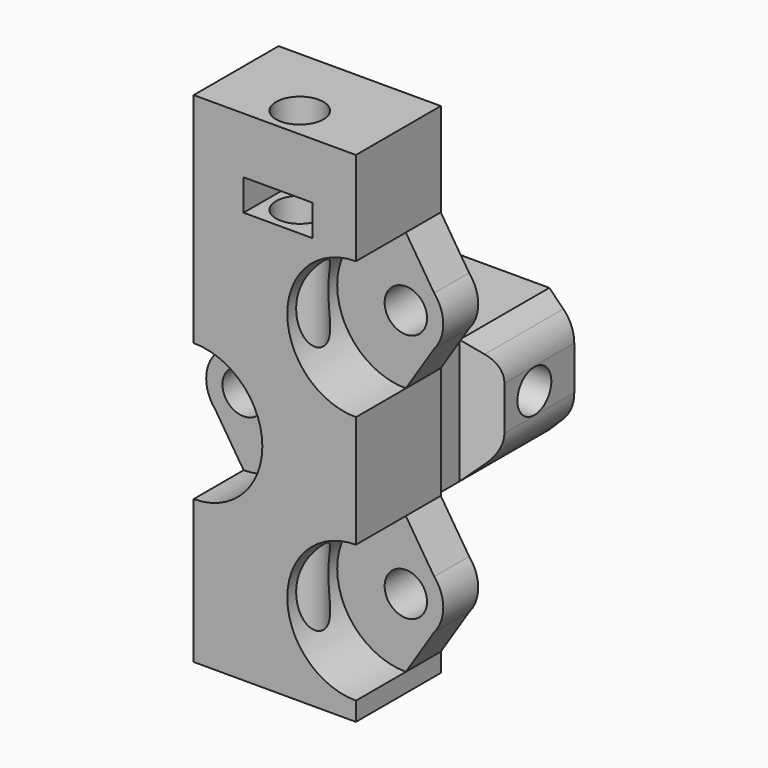
from build123d import *

# Parameters (mm, degrees)
BOX001027045206_W       = 8
BOX001027045206_H       = 6
BOX001027045206_DEPTH   = 10
CYLINDER272_R           = 2.2
CYLINDER272_DEPTH       = 30
CYLINDER271_R           = 2.2
CYLINDER271_DEPTH       = 30
CYLINDER271_PITCH_ANGLE = 90
CYLINDER270_R           = 1.7
CYLINDER270_DEPTH       = 30
CYLINDER270_PITCH_ANGLE = 90
BOX001027045200_W       = 10
BOX001027045200_H       = 9
BOX001027045200_DEPTH   = 10
CHAMFER015_SIZE         = 2
CHAMFER016_SIZE         = 2
FILLET046_R             = 3
CYLINDER045_R           = 1.9
CYLINDER045_DEPTH       = 200
BOX030_W                = 5.5
BOX030_H                = 10
BOX030_DEPTH            = 2.5
CYLINDER048_R           = 5.5
CYLINDER048_DEPTH       = 10
CYLINDER048_ROLL_ANGLE  = 90
CYLINDER050_R           = 5.5
CYLINDER050_DEPTH       = 10
CYLINDER050_ROLL_ANGLE  = 90
CYLINDER052_R           = 1.7
CYLINDER052_DEPTH       = 30
CYLINDER052_ROLL_ANGLE  = 90
CYLINDER053_R           = 1.7
CYLINDER053_DEPTH       = 30
CYLINDER053_ROLL_ANGLE  = 90
CYLINDER054_R           = 1.7
CYLINDER054_DEPTH       = 30
CYLINDER054_ROLL_ANGLE  = 90
CYLINDER047_R           = 5.5
CYLINDER047_DEPTH       = 10
CYLINDER047_ROLL_ANGLE  = 90
CYLINDER049_R           = 3
CYLINDER049_DEPTH       = 10
CYLINDER049_ROLL_ANGLE  = 90
CYLINDER051_R           = 3
CYLINDER051_DEPTH       = 10
CYLINDER051_ROLL_ANGLE  = 90
CYLINDER046_R           = 3
CYLINDER046_DEPTH       = 10
CYLINDER046_ROLL_ANGLE  = 90
BOX028_W                = 13
BOX028_H                = 8.5
BOX028_DEPTH            = 40
CHAMFER006_SIZE         = 2.5
CYLINDER273_R           = 2
CYLINDER273_DEPTH       = 10
CYLINDER273_PITCH_ANGLE = 90
BOX001027045201_W       = 3
BOX001027045201_H       = 8
BOX001027045201_DEPTH   = 8
FILLET047_R             = 3
CUT247_PITCH_ANGLE      = 90
CUT247_PLACEMENT_ANGLE  = 90


with BuildPart() as cube252:
    # Box001027045206 → Box001027045206 (new body)
    with BuildSketch(Plane(origin=(59.1, 20, 53), x_dir=(1, 0, 0), z_dir=(0, 0, 1))):
        with Locations((4, 3)):
            Rectangle(BOX001027045206_W, BOX001027045206_H)
    extrude(amount=BOX001027045206_DEPTH)


with BuildPart() as cylinder288:
    # Cylinder272 → Cylinder272 (new body)
    with BuildSketch(Plane(origin=(79.5, 5, 48), x_dir=(1, 0, 0), z_dir=(0, 0, 1))):
        Circle(CYLINDER272_R)
    extrude(amount=CYLINDER272_DEPTH)


with BuildPart() as cylinder287:
    # Cylinder271 → Cylinder271 (new body)
    with BuildSketch(Plane.XY):
        Circle(CYLINDER271_R)
    extrude(amount=CYLINDER271_DEPTH)


with BuildPart() as cylinder287_1:
    # Cylinder271 pitch: moved
    add(cylinder287.part.rotate(Axis((0, 0, 0), (0, 1, 0)), CYLINDER271_PITCH_ANGLE))


with BuildPart() as cylinder287_2:
    # Cylinder271 placement: moved
    add(cylinder287_1.part.moved(Location((74, 5, 58))))


with BuildPart() as cylinder286:
    # Cylinder270 → Cylinder270 (new body)
    with BuildSketch(Plane.XY):
        Circle(CYLINDER270_R)
    extrude(amount=CYLINDER270_DEPTH)


with BuildPart() as cylinder286_1:
    # Cylinder270 pitch: moved
    add(cylinder286.part.rotate(Axis((0, 0, 0), (0, 1, 0)), CYLINDER270_PITCH_ANGLE))


with BuildPart() as cylinder286_2:
    # Cylinder270 placement: moved
    add(cylinder286_1.part.moved(Location((57, 5, 58))))


with BuildPart() as led_pt_holder001:
    # Box001027045200 → Box001027045200 (new body)
    with BuildSketch(Plane(origin=(71, 1, 53), x_dir=(1, 0, 0), z_dir=(0, 0, 1))):
        with Locations((5, 4.5)):
            Rectangle(BOX001027045200_W, BOX001027045200_H)
    extrude(amount=BOX001027045200_DEPTH)

    # Chamfer015
    chamfer015_edges = [led_pt_holder001.edges().sort_by_distance(p)[0] for p in [
        (71, 10, 58),
    ]]
    chamfer(chamfer015_edges, length=CHAMFER015_SIZE)


with BuildPart() as led_pt_holder001_1:
    # Chamfer015 placement: moved
    add(led_pt_holder001.part.moved(Location((-1.5, 0, 0))))

    # Chamfer016
    chamfer016_edges = [led_pt_holder001_1.edges().sort_by_distance(p)[0] for p in [
        (69.5, 4.5, 63),
        (69.5, 4.5, 53),
    ]]
    chamfer(chamfer016_edges, length=CHAMFER016_SIZE)

    # Cut242: cut Cylinder286
    add(cylinder286_2.part, mode=Mode.SUBTRACT)

    # Cut243: cut Cylinder287
    add(cylinder287_2.part, mode=Mode.SUBTRACT)

    # Fillet046
    fillet046_edges = [led_pt_holder001_1.edges().sort_by_distance(p)[0] for p in [
        (69.5, 4.5, 55),
        (69.5, 4.5, 61),
    ]]
    fillet(fillet046_edges, radius=FILLET046_R)

    # Cut245: cut Cylinder288
    add(cylinder288.part, mode=Mode.SUBTRACT)


with BuildPart() as part_mirroring015:
    # Part__Mirroring015: instance of led-pt-holder001
    add(led_pt_holder001_1.part.mirror(Plane(origin=(60, 0, 0), x_dir=(0, -1, 0), z_dir=(1, 0, 0))))


with BuildPart() as part_mirroring015_1:
    # Part__Mirroring015 placement: moved
    add(part_mirroring015.part.moved(Location((18.6, 0, 0))))


with BuildPart() as pt_holder:
    # Part__Mirroring019: instance of Part__Mirroring015
    add(part_mirroring015_1.part.mirror(Plane(origin=(0, 0, 0), x_dir=(1, 0, 0), z_dir=(0, 1, 0))))


with BuildPart() as pt_holder_1:
    # Part__Mirroring019 placement: moved
    add(pt_holder.part.moved(Location((0, 34, 0))))

    # Fusion112161: union Cube252
    add(cube252.part)


with BuildPart() as m3_studding004:
    # Cylinder045 → Cylinder045 (new body)
    with BuildSketch(Plane(origin=(61.5, 15, 2), x_dir=(1, 0, 0), z_dir=(0, 0, 1))):
        Circle(CYLINDER045_R)
    extrude(amount=CYLINDER045_DEPTH)


with BuildPart() as m3_nut_hole:
    # Box030 → Box030 (new body)
    with BuildSketch(Plane(origin=(59, 11.7, 74), x_dir=(1, 0, 0), z_dir=(0, 0, 1))):
        with Locations((2.75, 5)):
            Rectangle(BOX030_W, BOX030_H)
    extrude(amount=BOX030_DEPTH)


with BuildPart() as cylinder088:
    # Cylinder048 → Cylinder048 (new body)
    with BuildSketch(Plane.XY):
        Circle(CYLINDER048_R)
    extrude(amount=CYLINDER048_DEPTH)


with BuildPart() as cylinder088_1:
    # Cylinder048 roll: moved
    add(cylinder088.part.rotate(Axis((0, 0, 0), (1, 0, 0)), CYLINDER048_ROLL_ANGLE))


with BuildPart() as cylinder088_2:
    # Cylinder048 placement: moved
    add(cylinder088_1.part.moved(Location((68, 17.5, 68))))


with BuildPart() as cylinder090:
    # Cylinder050 → Cylinder050 (new body)
    with BuildSketch(Plane.XY):
        Circle(CYLINDER050_R)
    extrude(amount=CYLINDER050_DEPTH)


with BuildPart() as cylinder090_1:
    # Cylinder050 roll: moved
    add(cylinder090.part.rotate(Axis((0, 0, 0), (1, 0, 0)), CYLINDER050_ROLL_ANGLE))


with BuildPart() as cylinder090_2:
    # Cylinder050 placement: moved
    add(cylinder090_1.part.moved(Location((68, 17.5, 48))))


with BuildPart() as cylinder092:
    # Cylinder052 → Cylinder052 (new body)
    with BuildSketch(Plane.XY):
        Circle(CYLINDER052_R)
    extrude(amount=CYLINDER052_DEPTH)


with BuildPart() as cylinder092_1:
    # Cylinder052 roll: moved
    add(cylinder092.part.rotate(Axis((0, 0, 0), (1, 0, 0)), CYLINDER052_ROLL_ANGLE))


with BuildPart() as cylinder092_2:
    # Cylinder052 placement: moved
    add(cylinder092_1.part.moved(Location((68, 26, 48))))


with BuildPart() as cylinder052:
    # Cylinder053 → Cylinder053 (new body)
    with BuildSketch(Plane.XY):
        Circle(CYLINDER053_R)
    extrude(amount=CYLINDER053_DEPTH)


with BuildPart() as cylinder052_1:
    # Cylinder053 roll: moved
    add(cylinder052.part.rotate(Axis((0, 0, 0), (1, 0, 0)), CYLINDER053_ROLL_ANGLE))


with BuildPart() as cylinder052_2:
    # Cylinder053 placement: moved
    add(cylinder052_1.part.moved(Location((68, 27, 68))))


with BuildPart() as cylinder093:
    # Cylinder054 → Cylinder054 (new body)
    with BuildSketch(Plane.XY):
        Circle(CYLINDER054_R)
    extrude(amount=CYLINDER054_DEPTH)


with BuildPart() as cylinder093_1:
    # Cylinder054 roll: moved
    add(cylinder093.part.rotate(Axis((0, 0, 0), (1, 0, 0)), CYLINDER054_ROLL_ANGLE))


with BuildPart() as cylinder093_2:
    # Cylinder054 placement: moved
    add(cylinder093_1.part.moved(Location((55, 26, 58))))


with BuildPart() as trolley_clearances_and_screws:
    # Cylinder047 → Cylinder047 (new body)
    with BuildSketch(Plane.XY):
        Circle(CYLINDER047_R)
    extrude(amount=CYLINDER047_DEPTH)


with BuildPart() as trolley_clearances_and_screws_1:
    # Cylinder047 roll: moved
    add(trolley_clearances_and_screws.part.rotate(Axis((0, 0, 0), (1, 0, 0)), CYLINDER047_ROLL_ANGLE))


with BuildPart() as trolley_clearances_and_screws_2:
    # Cylinder047 placement: moved
    add(trolley_clearances_and_screws_1.part.moved(Location((55, 17.5, 58))))

    # Fusion028: union Cylinder088, Cylinder090, Cylinder092, Cylinder052, Cylinder093
    add(cylinder088_2.part)
    add(cylinder090_2.part)
    add(cylinder092_2.part)
    add(cylinder052_2.part)
    add(cylinder093_2.part)


with BuildPart() as cylinder089:
    # Cylinder049 → Cylinder049 (new body)
    with BuildSketch(Plane.XY):
        Circle(CYLINDER049_R)
    extrude(amount=CYLINDER049_DEPTH)


with BuildPart() as cylinder089_1:
    # Cylinder049 roll: moved
    add(cylinder089.part.rotate(Axis((0, 0, 0), (1, 0, 0)), CYLINDER049_ROLL_ANGLE))


with BuildPart() as cylinder089_2:
    # Cylinder049 placement: moved
    add(cylinder089_1.part.moved(Location((68, 21, 68))))


with BuildPart() as cylinder091:
    # Cylinder051 → Cylinder051 (new body)
    with BuildSketch(Plane.XY):
        Circle(CYLINDER051_R)
    extrude(amount=CYLINDER051_DEPTH)


with BuildPart() as cylinder091_1:
    # Cylinder051 roll: moved
    add(cylinder091.part.rotate(Axis((0, 0, 0), (1, 0, 0)), CYLINDER051_ROLL_ANGLE))


with BuildPart() as cylinder091_2:
    # Cylinder051 placement: moved
    add(cylinder091_1.part.moved(Location((68, 21, 48))))


with BuildPart() as trolley_hubs:
    # Cylinder046 → Cylinder046 (new body)
    with BuildSketch(Plane.XY):
        Circle(CYLINDER046_R)
    extrude(amount=CYLINDER046_DEPTH)


with BuildPart() as trolley_hubs_1:
    # Cylinder046 roll: moved
    add(trolley_hubs.part.rotate(Axis((0, 0, 0), (1, 0, 0)), CYLINDER046_ROLL_ANGLE))


with BuildPart() as trolley_hubs_2:
    # Cylinder046 placement: moved
    add(trolley_hubs_1.part.moved(Location((55, 21, 58))))

    # Fusion027: union Cylinder089, Cylinder091
    add(cylinder089_2.part)
    add(cylinder091_2.part)


with BuildPart() as trolley_b001:
    # Box028 → Box028 (new body)
    with BuildSketch(Plane(origin=(55, 12.5, 41), x_dir=(1, 0, 0), z_dir=(0, 0, 1))):
        with Locations((6.5, 4.25)):
            Rectangle(BOX028_W, BOX028_H)
    extrude(amount=BOX028_DEPTH)

    # Fusion029: union trolley-hubs
    add(trolley_hubs_2.part)

    # Cut017: cut trolley-clearances-and-screws
    add(trolley_clearances_and_screws_2.part, mode=Mode.SUBTRACT)

    # Cut019: cut M3-nut-hole
    add(m3_nut_hole.part, mode=Mode.SUBTRACT)

    # Chamfer006
    chamfer006_edges = [trolley_b001.edges().sort_by_distance(p)[0] for p in [
        (55, 19.25, 55),
        (68, 19.25, 45),
        (55, 19.25, 61),
        (68, 19.25, 65),
        (68, 19.25, 51),
        (68, 19.25, 71),
    ]]
    chamfer(chamfer006_edges, length=CHAMFER006_SIZE)

    # Cut033: cut m3-studding004
    add(m3_studding004.part, mode=Mode.SUBTRACT)


with BuildPart() as cylinder289:
    # Cylinder273 → Cylinder273 (new body)
    with BuildSketch(Plane.XY):
        Circle(CYLINDER273_R)
    extrude(amount=CYLINDER273_DEPTH)


with BuildPart() as cylinder289_1:
    # Cylinder273 pitch: moved
    add(cylinder289.part.rotate(Axis((0, 0, 0), (0, 1, 0)), CYLINDER273_PITCH_ANGLE))


with BuildPart() as cylinder289_2:
    # Cylinder273 placement: moved
    add(cylinder289_1.part.moved(Location((-3, 4, 4.5))))


with BuildPart() as trolley:
    # Box001027045201 → Box001027045201 (new body)
    with BuildSketch(Plane.XY):
        with Locations((1.5, 4)):
            Rectangle(BOX001027045201_W, BOX001027045201_H)
    extrude(amount=BOX001027045201_DEPTH)

    # Fillet047
    fillet047_edges = [trolley.edges().sort_by_distance(p)[0] for p in [
        (1.5, 0, 8),
        (1.5, 8, 8),
    ]]
    fillet(fillet047_edges, radius=FILLET047_R)

    # Cut247: cut Cylinder289
    add(cylinder289_2.part, mode=Mode.SUBTRACT)


with BuildPart() as trolley_1:
    # Cut247 pitch: moved
    add(trolley.part.rotate(Axis((0, 0, 0), (0, 1, 0)), CUT247_PITCH_ANGLE))


with BuildPart() as trolley_2:
    # Cut247 placement: moved
    add(trolley_1.part.moved(Location((64, 20, 49))).rotate(Axis((64, 20, 49), (0, 0, 1)), CUT247_PLACEMENT_ANGLE))

    # Fusion112159: union trolley-b001
    add(trolley_b001.part)

    # Fusion112164: union pt-holder
    add(pt_holder_1.part)


solid = trolley_2.part
